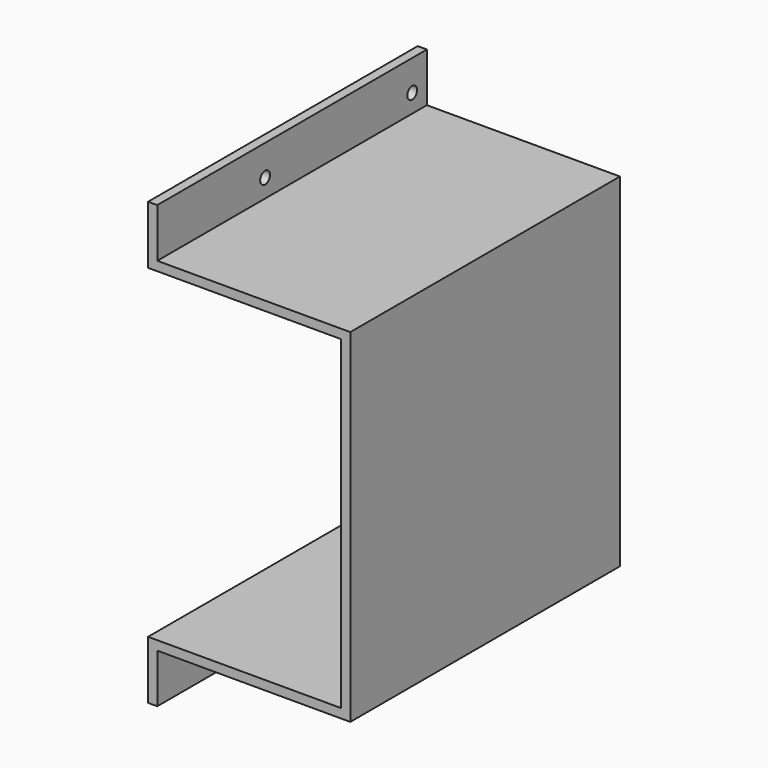
from build123d import *

# Parameters (mm, degrees)
F0_W          = 30
F0_H          = 55
F1_DEPTH      = 1.5
F2_W          = 1.5
F2_H          = 55
F3_DEPTH      = 1.5
F3_DEPTH_BACK = 8
F4_DEPTH      = 28
F5_R          = 1
F6_DEPTH      = 1.5


with BuildPart() as f1:
    # F0 (on Top) → F1 (new body)
    with BuildSketch(Plane.XY):
        Rectangle(F0_W, F0_H)
    extrude(amount=F1_DEPTH)

    # F2 (on Top) → F3 (join, two sides)
    with BuildSketch(Plane.XY) as f3_sk:
        with Locations((-15.75, 0)):
            Rectangle(F2_W, F2_H)
    extrude(amount=F3_DEPTH)
    extrude(f3_sk.sketch, amount=-F3_DEPTH_BACK)

    # F2 (on Top) → F4 (join)
    with BuildSketch(Plane.XY):
        with Locations((15.75, 0)):
            Rectangle(F2_W, F2_H)
    extrude(amount=F4_DEPTH)

    # F5 (on face) → F6 (cut, through all)
    with BuildSketch(Plane(origin=(-16.5, 0, 0), x_dir=(0, -1, 0), z_dir=(-1, 0, 0))):
        with Locations((-24.5, -3)):
            Circle(F5_R)
        with Locations((5.5, -3)):
            Circle(F5_R)
    extrude(amount=-F6_DEPTH, mode=Mode.SUBTRACT)

    # F7: F1 across face


with BuildPart() as f1_1:
    add(f1.part)
    add(f1.part.mirror(Plane(origin=(15.75, 0, 28), x_dir=(1, 0, 0), z_dir=(0, 0, 1))))


solid = f1_1.part
